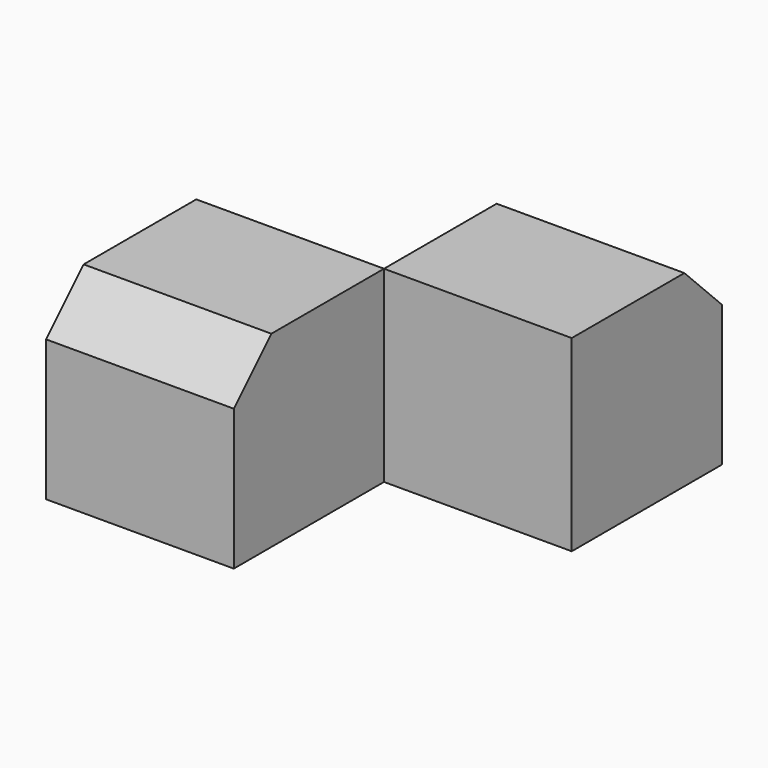
from build123d import *

# Parameters (mm, degrees)
F0_W     = 304.8
F0_H     = 304.8
F1_DEPTH = 304.8
F2_SIZE  = 76.2
F3_ANGLE = 180


with BuildPart() as f1:
    # F0 (on Front) → F1 (new body)
    with BuildSketch(Plane.XZ):
        with Locations((152.4, 152.4)):
            Rectangle(F0_W, F0_H)
    extrude(amount=F1_DEPTH)

    # F2
    f2_edges = [f1.edges().sort_by_distance(p)[0] for p in [
        (152.4, -304.8, 304.8),
    ]]
    chamfer(f2_edges, length=F2_SIZE)


with BuildPart() as f3_1:
    # F3: copy of F1
    add(f1.part.rotate(Axis((304.8, 0, 152.4), (0, 0, -1)), F3_ANGLE))


solid = Compound([f1.part, f3_1.part])
